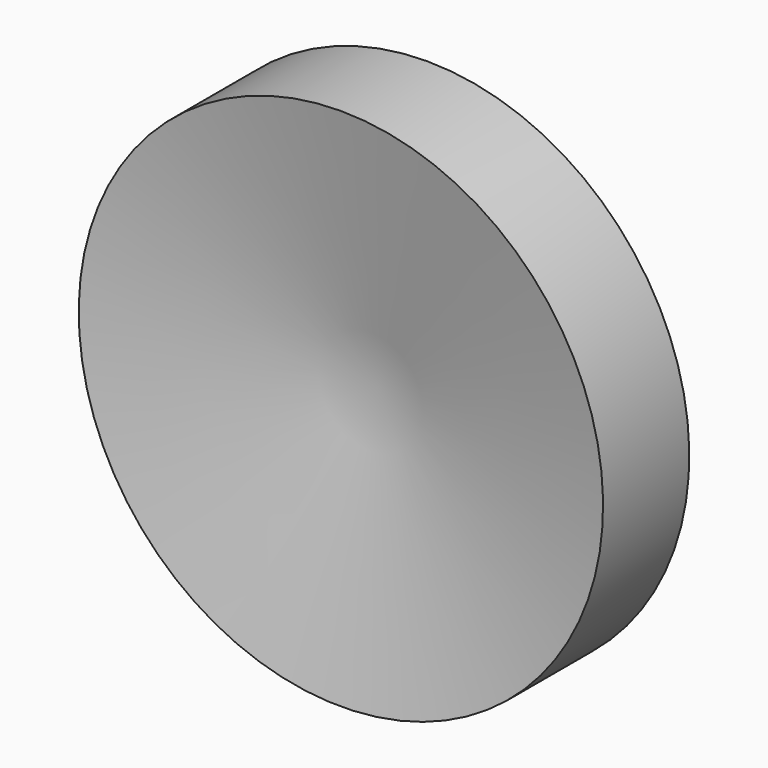
from build123d import *

# Parameters (mm, degrees)
F2_R     = 4.0386
F3_DEPTH = 3.4925
F4_DEPTH = 8.001


with BuildPart() as f1:
    # F0 (on Right) → F1 (revolve)
    with BuildSketch(Plane.YZ):
        Polygon((-1.907612, 10.818606), (0, 0), (4.445, 0), (2.537388, 10.818606), align=None)
    revolve(axis=Axis((0, 0.105105, 0), (0, 1, 0)))

    # F2 (on Front) → F3 (join)
    with BuildSketch(Plane.XZ):
        Circle(F2_R)
    extrude(amount=-F3_DEPTH)

    # F2 (on Front) → F4 (join)
    with BuildSketch(Plane.XZ):
        Circle(F2_R)
    extrude(amount=-F4_DEPTH)


solid = f1.part
